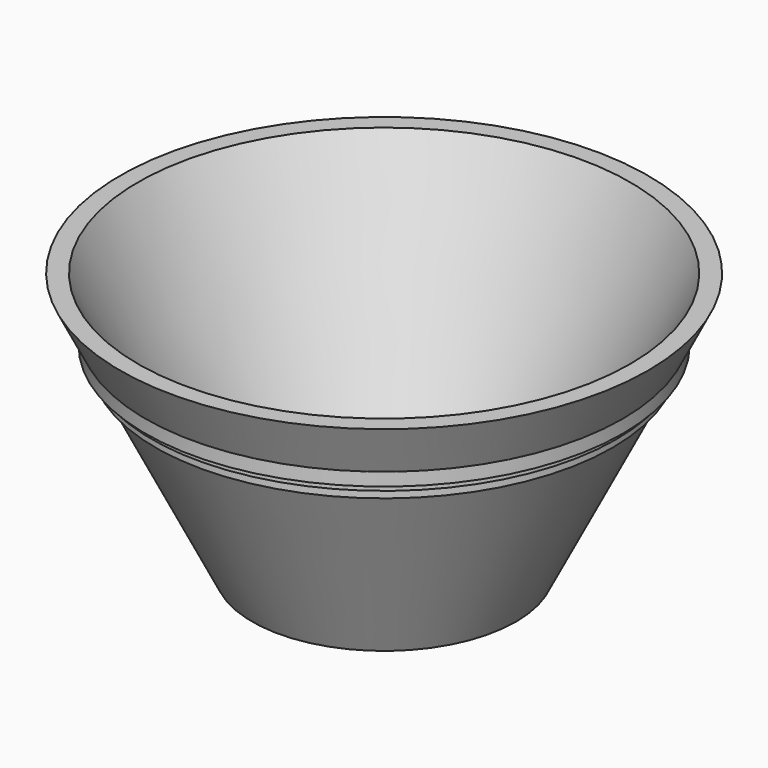
from build123d import *


with BuildPart() as f1:
    # F0 (on Front) → F1 (revolve)
    with BuildSketch(Plane.XZ):
        Polygon((0, 3.0734), (0, 0), (25.4, 0), (43.15909, 35.518181), (43.972252, 37.144504), (44.662208, 38.524415), (45.920402, 41.040804), (50.8, 50.8), (47.363834, 50.8), (23.500534, 3.0734), align=None)
        Polygon((45.920402, 41.040804), (44.662208, 38.524415), (45.920402, 38.524415), align=None)
        Polygon((44.662208, 38.524415), (43.972252, 37.144504), (44.662208, 37.144504), align=None)
        Polygon((43.972252, 37.144504), (43.15909, 35.518181), (43.972252, 35.518181), align=None)
    revolve(axis=Axis((0, 0, 25.4), (0, 0, 1)))


solid = f1.part
